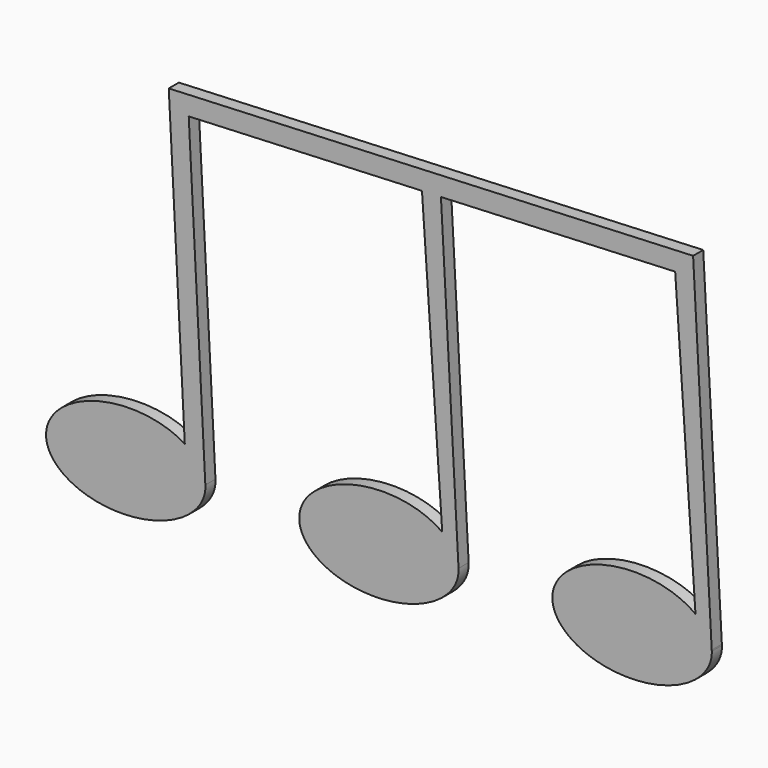
from build123d import *

# Parameters (mm, degrees)
F1_DEPTH = 3.175


with BuildPart() as f1:
    # F0 (on Front) → F1 (new body)
    with BuildSketch(Plane.XZ):
        with BuildLine():
            Line((-57.4732873639, 34.6010900648), (-53.4538653096, -42.5768082351))
            add(Edge.make_bspline(
                [(-53.4538653096, -42.5768082351), (-71.443014496, -31.3865750907), (-85.3511994486, -45.5742081934), (-99.2593844012, -59.7618412961), (-73.320878871, -62.8429968296), (-47.3823733409, -65.9241523631), (-48.2995897031, -49.9754552992)],
                knots=[3.8429288139, 3.8429288139, 3.8429288139, 5.7035451962, 5.7035451962, 7.5641615785, 7.5641615785, 9.4247779608, 9.4247779608, 9.4247779608], degree=2, weights=[1, 0.5975869017, 1, 0.5975869017, 1, 0.5975869017, 1]))
            Line((-48.2995897031, -49.9754552992), (-52.4675645083, 30.0548404216))
            Line((-52.4675645083, 30.0548404216), (6.0342434698, 32.6363170186))
            Line((6.0342434698, 32.6363170186), (11.1190940851, -41.064685985))
            add(Edge.make_bspline(
                [(11.1190940851, -41.064685985), (-5.6225847224, -28.5906317661), (-21.2440517397, -42.7486685513), (-36.8655187569, -56.9067053364), (-10.3602846142, -60.5318610852), (16.1449495285, -64.157016834), (15.2004102969, -47.733225577)],
                knots=[3.7589038735, 3.7589038735, 3.7589038735, 5.6475285693, 5.6475285693, 7.536153265, 7.536153265, 9.4247779608, 9.4247779608, 9.4247779608], degree=2, weights=[1, 0.5863000804, 1, 0.5863000804, 1, 0.5863000804, 1]))
            Line((15.2004102969, -47.733225577), (10.7927630952, 32.8309891146))
            Line((10.7927630952, 32.8309891146), (69.5359457621, 35.4384211586))
            Line((69.5359457621, 35.4384211586), (74.6373392248, -38.5023577095))
            add(Edge.make_bspline(
                [(74.6373392248, -38.5023577095), (57.9726706524, -25.8455411224), (42.3001402972, -39.6646795375), (26.6276099421, -53.4838179526), (52.9616441452, -57.6147424848), (79.2956783483, -61.7456670169), (78.7210935619, -45.377902516)],
                knots=[0.6300081077, 0.6300081077, 0.6300081077, 2.5144005075, 2.5144005075, 4.3987929073, 4.3987929073, 6.2831853072, 6.2831853072, 6.2831853072], degree=2, weights=[1, 0.5880130451, 1, 0.5880130451, 1, 0.5880130451, 1]))
            Line((78.7210935619, -45.377902516), (78.7060179424, -45.1019781972))
            Line((78.7060179424, -45.1019781972), (74.0342429277, 40.4040493835))
            Line((74.0342429277, 40.4040493835), (-57.4732873639, 34.6010900648))
        make_face()
        with BuildLine():
            add(Edge.make_bspline(
                [(78.7210935619, -45.377902516), (78.7162464781, -45.2398272869), (78.7060179424, -45.1019781972)],
                knots=[0, 0, 0, 0.0232069845, 0.0232069845, 0.0232069845], degree=2, weights=[1, 0.9999326802, 1]))
            Line((78.7060179424, -45.1019781972), (78.7210935619, -45.377902516))
        make_face()
    extrude(amount=F1_DEPTH)


solid = f1.part
